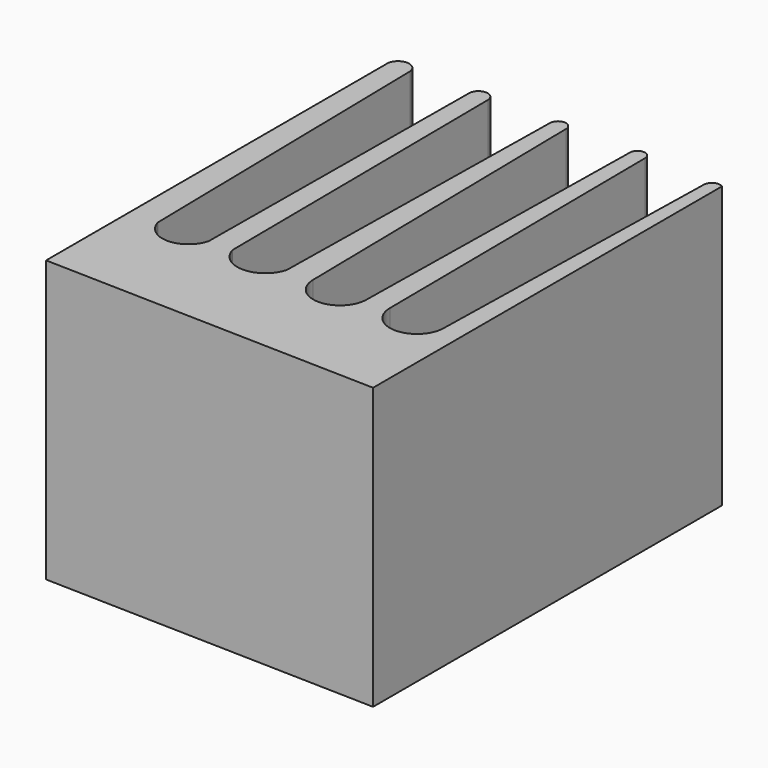
from build123d import *

# Parameters (mm, degrees)
F1_DEPTH = 26.92


with BuildPart() as f1:
    # F0 (on Top) → F1 (new body)
    with BuildSketch(Plane.XY):
        with BuildLine():
            ThreePointArc((-11.241594, 18.364918), (-12.292704, 19.320588), (-13.373895, 18.399088))
            Line((-13.373895, 18.399088), (-13.373895, -22.575411))
            Line((-13.373895, -22.575411), (18.626105, -23.408137))
            Line((18.626105, -23.408137), (18.626105, 18.379824))
            ThreePointArc((18.626105, 18.379824), (17.824413, 18.44657), (17.392959, 17.767591))
            Line((17.392959, 17.767591), (16.720654, -12.537674))
            ThreePointArc((16.720654, -12.537674), (14.131955, -15.124464), (11.545165, -12.535765))
            Line((11.545165, -12.535765), (11.277532, 18.364451))
            ThreePointArc((11.277532, 18.364451), (10.550878, 19.085636), (9.822628, 18.366063))
            Line((9.822628, 18.366063), (9.323563, -12.535565))
            ThreePointArc((9.323563, -12.535565), (6.76096, -15.09974), (4.196786, -12.537137))
            Line((4.196786, -12.537137), (3.699317, 18.3712))
            ThreePointArc((3.699317, 18.3712), (2.92693, 19.128157), (2.160752, 18.364918))
            Line((2.160752, 18.364918), (1.663561, -12.535565))
            ThreePointArc((1.663561, -12.535565), (-0.932977, -14.543026), (-3.529515, -12.535565))
            Line((-3.529515, -12.535565), (-3.79715, 18.364918))
            ThreePointArc((-3.79715, 18.364918), (-4.670126, 19.249776), (-5.581484, 18.404502))
            Line((-5.581484, 18.404502), (-5.8192, -12.535565))
            ThreePointArc((-5.8192, -12.535565), (-8.252189, -14.43033), (-10.685177, -12.535565))
            Line((-10.685177, -12.535565), (-11.241594, 18.364918))
        make_face()
    extrude(amount=F1_DEPTH)


solid = f1.part
